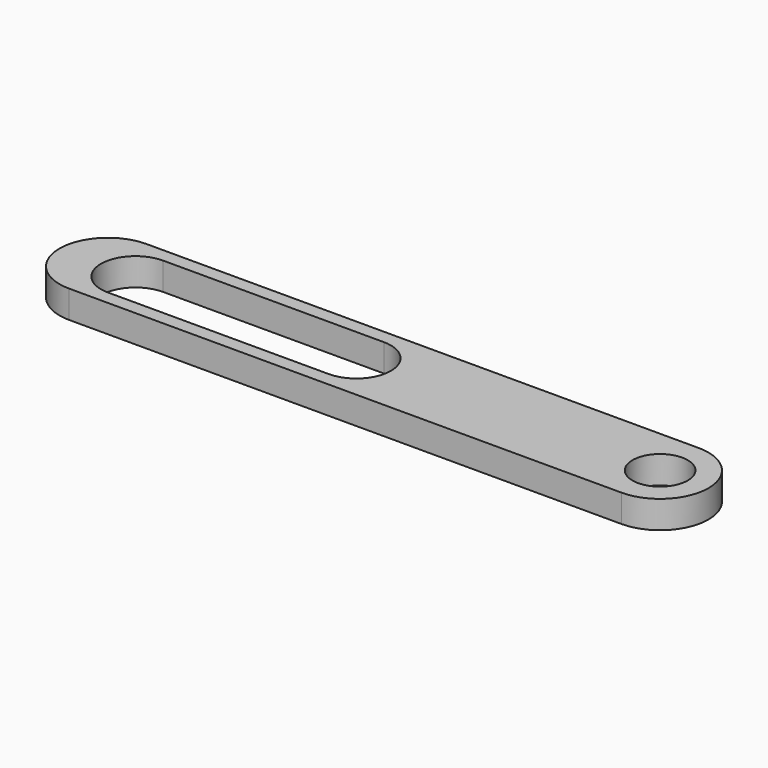
from build123d import *

# Parameters (mm, degrees)
F0_R     = 10
F1_DEPTH = 5


with BuildPart() as f1:
    # F0 (on Top) → F1 (new body, symmetric)
    with BuildSketch(Plane.XY):
        with BuildLine():
            Line((100, 17.5), (-100, 17.5))
            ThreePointArc((-100, 17.5), (-117.5, 0), (-100, -17.5))
            Line((-100, -17.5), (100, -17.5))
            ThreePointArc((100, -17.5), (117.5, 0), (100, 17.5))
        make_face()
        with BuildLine():
            ThreePointArc((-90, -12.5), (-102.5, 0), (-90, 12.5))
            Line((-90, 12.5), (-10, 12.5))
            ThreePointArc((-10, 12.5), (2.5, 0), (-10, -12.5))
            Line((-10, -12.5), (-90, -12.5))
        make_face(mode=Mode.SUBTRACT)
        with Locations((100, 0)):
            Circle(F0_R, mode=Mode.SUBTRACT)
    extrude(amount=F1_DEPTH, both=True)


solid = f1.part
